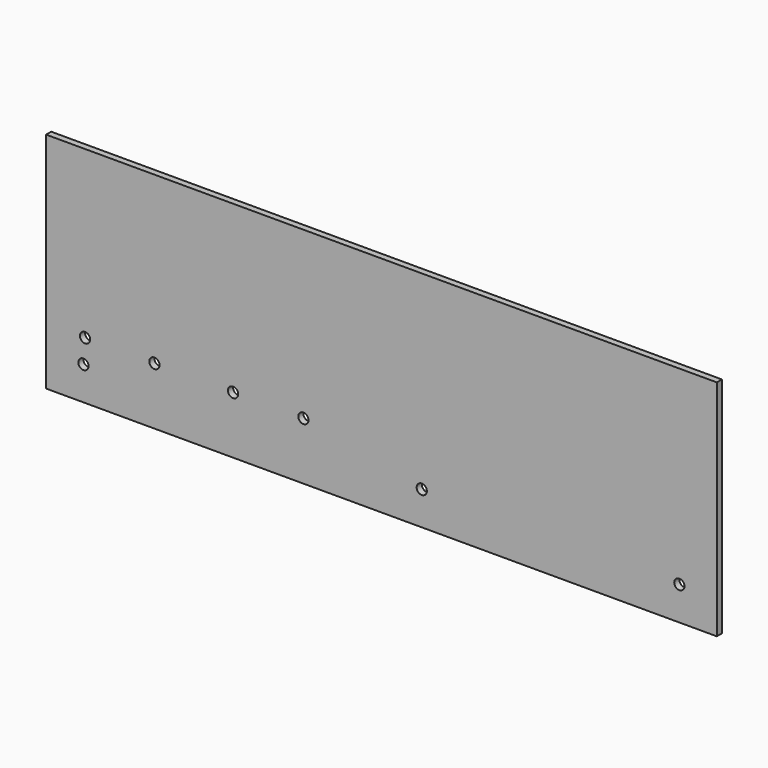
from build123d import *

# Parameters (mm, degrees)
F0_W     = 210
F0_H     = 70
F1_DEPTH = 2
F3_D     = 3.2


with BuildPart() as f1:
    # F0 (on Front) → F1 (new body)
    with BuildSketch(Plane.XZ):
        with Locations((105, 35)):
            Rectangle(F0_W, F0_H)
    extrude(amount=F1_DEPTH)

    # F3 (through all)
    with Locations(Plane.XZ.offset(2)):
        with Locations((12.199, 18), (11.706, 10.5), (33.915, 18), (58.55, 18), (80.556, 18), (117.624, 10.5), (198.271, 10.5)):
            Hole(F3_D / 2)


solid = f1.part
